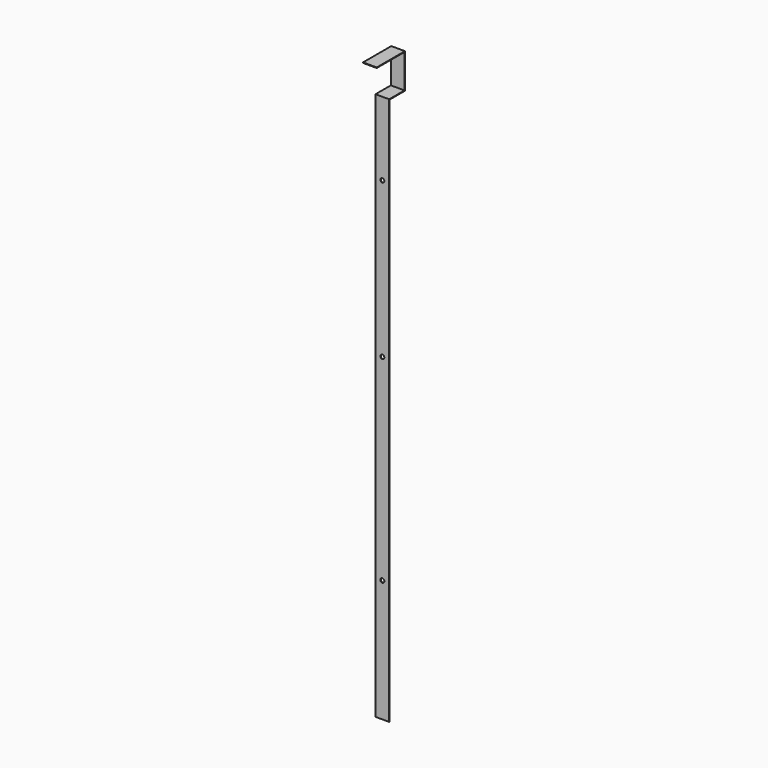
from build123d import *

# Parameters (mm, degrees)
F1_DEPTH = 19.05
F2_R     = 2.794
F3_DEPTH = 25.4


with BuildPart() as f1:
    # F0 (on Right) → F1 (new body)
    with BuildSketch(Plane.YZ):
        Polygon((0, 0.762), (0, 0), (48.26, 0), (48.26, -46.99), (21.59, -46.99), (21.59, -808.99), (22.352, -808.99), (22.352, -47.752), (49.022, -47.752), (49.022, 0.762), align=None)
    extrude(amount=F1_DEPTH)

    # F2 (on face) → F3 (cut)
    with BuildSketch(Plane(origin=(0, 22.352, 0), x_dir=(-1, 0, 0), z_dir=(0, 1, 0))):
        with Locations((-9.525, -149.352)):
            Circle(F2_R)
        with Locations((-9.525, -365.252)):
            Circle(F2_R)
        with Locations((-9.525, -639.064)):
            Circle(F2_R)
    extrude(amount=-F3_DEPTH, mode=Mode.SUBTRACT)


solid = f1.part
